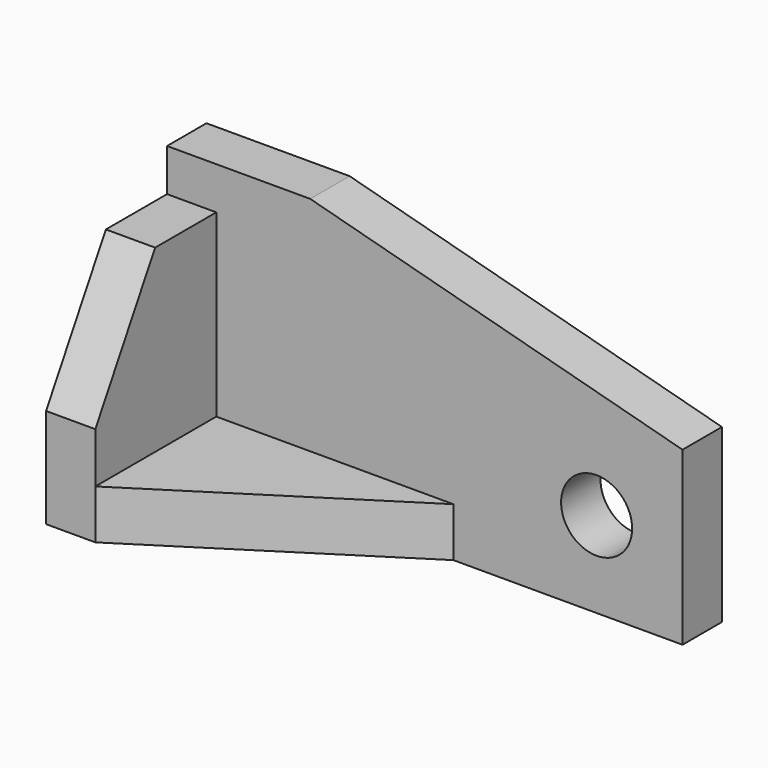
from build123d import *

# Parameters (mm, degrees)
F0_R     = 7.874
F1_DEPTH = 10.922
F3_DEPTH = 10.922
F5_DEPTH = 10.922


with BuildPart() as f1:
    # F0 (on Front) → F1 (new body)
    with BuildSketch(Plane.XZ):
        Polygon((-63.354626, 21.373442), (-63.354626, -38.824558), (50.945374, -38.824558), (50.945374, -0.745764), (-31.604626, 21.373442), align=None)
        with Locations((31.895374, -19.774558)):
            Circle(F0_R, mode=Mode.SUBTRACT)
    extrude(amount=F1_DEPTH)

    # F2 (on face) → F3 (join)
    with BuildSketch(Plane(origin=(-63.354626, 0, 0), x_dir=(0, -1, 0), z_dir=(-1, 0, 0))):
        Polygon((10.922, 11.975442), (10.922, -38.824558), (44.45, -38.824558), (44.45, -16.726558), (27.878893, 11.975442), align=None)
    extrude(amount=-F3_DEPTH)

    # F4 (on face) → F5 (join)
    with BuildSketch(Plane(origin=(0, 0, -38.824558), x_dir=(1, 0, 0), z_dir=(0, 0, -1))):
        Polygon((0.145374, 10.922), (-52.432626, 44.45), (-52.432626, 10.922), align=None)
    extrude(amount=-F5_DEPTH)


solid = f1.part
